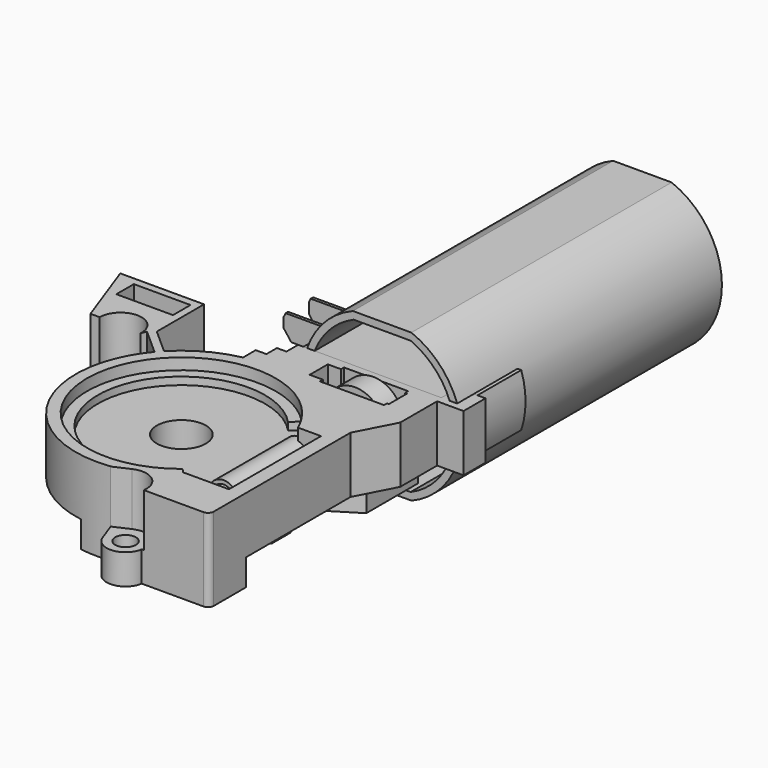
from build123d import *

# Parameters (mm, degrees)
PAD_DEPTH           = 86.2
PAD001_DEPTH        = 20
SKETCH003_W         = 10
SKETCH003_H         = 16
PAD002_DEPTH        = 8
PAD003_DEPTH        = 0.8
LINEARPATTERN_COUNT = 2
LINEARPATTERN_PITCH = 8.3
SKETCH005_R         = 2.75
SKETCH005_R_2       = 6.5
PAD004_DEPTH        = 7
PAD004_DEPTH_BACK   = 15
POCKET_DEPTH        = 7.001
SKETCH007_W         = 15
SKETCH007_H         = 5.8
SKETCH007_W_2       = 17
SKETCH007_H_2       = 8
POCKET001_DEPTH     = 17.001
SKETCH008_R         = 8.447262
SKETCH008_R_2       = 5.55
SKETCH008_W         = 21
SKETCH008_H         = 6
POCKET002_DEPTH     = 14.001
SKETCH009_R         = 25
POCKET003_DEPTH     = 3.001
POCKET004_DEPTH     = 5.001


with BuildPart() as motor:
    # Sketch → Revolution (revolve)
    with BuildSketch(Plane.XY):
        with BuildLine():
            Line((0, 83.9), (-19.5, 83.9))
            Line((-19.5, 83.9), (-19.5, 84.9))
            Line((-19.5, 84.9), (-14.47132, 84.9))
            ThreePointArc((-14.47132, 84.9), (-14.088637, 84.97612), (-13.764214, 85.192893))
            Line((-13.764214, 85.192893), (-11.642893, 87.314214))
            ThreePointArc((-11.642893, 87.314214), (-11.42612, 87.638637), (-11.35, 88.02132))
            Line((-11.35, 88.02132), (-11.35, 94.5))
            ThreePointArc((-10.35, 95.5), (-11.057107, 95.207107), (-11.35, 94.5))
            Line((-10.35, 95.5), (-9.445042, 95.5))
            ThreePointArc((-9.445042, 95.5), (-8.945042, 95.633975), (-8.579016, 96))
            Line((-8.579016, 96), (-6.038675, 100.4))
            ThreePointArc((-5.17265, 100.9), (-5.67265, 100.766025), (-6.038675, 100.4))
            Line((-5.17265, 100.9), (0, 100.9))
            Line((0, 100.9), (0, 83.9))
        make_face()
    revolve(axis=Axis((0, 0, 0), (0, 1, 0)))

    # Sketch001 → Pad (new body)
    with BuildSketch(Plane.XZ):
        with BuildLine():
            ThreePointArc((-7.745684, 19.6), (-21.075, 0), (-7.745684, -19.6))
            Line((-7.745684, -19.6), (7.745684, -19.6))
            ThreePointArc((7.745684, -19.6), (21.075, 0), (7.745684, 19.6))
            Line((-7.745684, 19.6), (7.745684, 19.6))
        make_face()
        with BuildLine():
            ThreePointArc((-7.557612, 17.65), (-19.2, 0), (-7.557612, -17.65))
            Line((-7.557612, -17.65), (7.557612, -17.65))
            ThreePointArc((7.557612, -17.65), (19.2, 0), (7.557612, 17.65))
            Line((-7.557612, 17.65), (7.557612, 17.65))
        make_face(mode=Mode.SUBTRACT)
    extrude(amount=-PAD_DEPTH)

    # Sketch002 → Pad001 (join)
    with BuildSketch(Plane.XZ):
        with BuildLine():
            ThreePointArc((-20.856654, 7), (-22, 0), (-20.856654, -7))
            Line((-20.856654, -7), (20.856654, -7))
            ThreePointArc((20.856654, -7), (22, 0), (20.856654, 7))
            Line((-20.856654, 7), (20.856654, 7))
        make_face()
    extrude(amount=-PAD001_DEPTH)

    # Sketch003 → Pad002 (join)
    with BuildSketch(Plane.XY):
        with Locations((-23, 15.5)):
            Rectangle(SKETCH003_W, SKETCH003_H)
    extrude(amount=-PAD002_DEPTH)

    # Sketch004 → Pad003 (join)
    with BuildSketch(Plane.XZ.offset(-19)):
        Polygon((-22.4, -3.6), (-22.4, 4.7), (-22.9, 6.7), (-33.5, 6.7), (-34, 5.7), (-34, 3), (-32, 0.4), (-26.4, 0.4), (-26.4, -3.6), align=None)
    pad003 = extrude(amount=PAD003_DEPTH)

    # LinearPattern: Pad003 ×2
    with Locations(*[(0, -i * LINEARPATTERN_PITCH, 0) for i in range(1, LINEARPATTERN_COUNT)]):
        add(pad003)

    # Sketch011 → Revolution001 (revolve)
    with BuildSketch(Plane.XY):
        Polygon((-3, 0), (-3, -3), (-8, -3), (-8, -9), (-3, -9), (-3, -27.5), (-4, -27.5), (-4, -52.5), (-3, -52.5), (-3, -64), (0, -64), (0, 0), align=None)
    revolve(axis=Axis((0, 0, 0), (0, 1, 0)))


with BuildPart() as gearbox:
    # Sketch005 → Pad004 (new body, two sides)
    with BuildSketch(Plane.XY) as pad004_sk:
        with BuildLine():
            Line((15.7, 0), (15.7, 5.5))
            Line((15.7, 5.5), (23, 5.5))
            Line((23, 5.5), (23, -1.8))
            Line((23, -1.8), (16, -1.8))
            Line((16, -1.8), (16, -14))
            Line((16, -14), (10.8, -24))
            Line((10.8, -24), (10.8, -69.3))
            ThreePointArc((9.3, -70.8), (10.36066, -70.36066), (10.8, -69.3))
            Line((9.3, -70.8), (-7.064415, -70.8))
            ThreePointArc((-16.696235, -71.71621), (-11.526521, -74.977531), (-7.064415, -70.8))
            Line((-16.696235, -71.71621), (-18.5, -66.780389))
            ThreePointArc((-49.349589, -33), (-42.675575, -57.881753), (-18.5, -66.780389))
            ThreePointArc((-50.179261, -32.456859), (-49.810606, -32.798974), (-49.349589, -33))
            Line((-50.179261, -32.456859), (-60.467437, -19.042934))
            ThreePointArc((-61.5, -16), (-61.234828, -17.606676), (-60.467437, -19.042934))
            Line((-61.5, -16), (-64.5, -16))
            Line((-64.5, -16), (-71, 2))
            Line((-71, 2), (-34, 2))
            Line((-34, 2), (-34, 35))
            ThreePointArc((-31.794789, 40.1), (-33.425088, 37.778172), (-34, 35))
            Line((-31.794789, 40.1), (-23.4, 40.1))
            ThreePointArc((-22.4, 39.1), (-22.692893, 39.807107), (-23.4, 40.1))
            Line((-22.4, 39.1), (-22.4, 0))
            Line((-22.4, 0), (15.7, 0))
        make_face()
        with Locations((-27, 35)):
            Circle(SKETCH005_R, mode=Mode.SUBTRACT)
        with Locations((-56.5, -16)):
            Circle(SKETCH005_R, mode=Mode.SUBTRACT)
        with Locations((-12, -70)):
            Circle(SKETCH005_R, mode=Mode.SUBTRACT)
        with Locations((-22, -39)):
            Circle(SKETCH005_R_2, mode=Mode.SUBTRACT)
    extrude(amount=PAD004_DEPTH)
    extrude(pad004_sk.sketch, amount=-PAD004_DEPTH_BACK)

    # Sketch006 → Pocket (cut, through all)
    with BuildSketch(Plane.XY.offset(-8)):
        with BuildLine():
            Line((9.5, 7.196354), (9.5, -17.130762))
            Line((9.5, -17.130762), (0, -23))
            Line((0, -23), (-9.5, -17.130762))
            Line((-9.5, -17.130762), (-9.5, 0))
            Line((-9.5, 0), (-22, 0))
            Line((-22, 0), (-22, -7.810231))
            ThreePointArc((-21, -15.358568), (-19.02992, -11.257164), (-22, -7.810231))
            Line((-21, -15.358568), (-21, -29.401953))
            ThreePointArc((-12.397956, -38.039143), (-15.162523, -32.190345), (-21, -29.401953))
            Line((-12.397956, -38.039143), (-3.264059, -38.039143))
            Line((-3.264059, -38.039143), (-3.264059, -33.677689))
            Line((-3.264059, -33.677689), (2.716105, -33.677689))
            Line((2.716105, -33.677689), (2.716105, -40.039126))
            Line((2.716105, -40.039126), (-12.40611, -40.039126))
            ThreePointArc((-14.207198, -44.691638), (-13.000793, -42.483788), (-12.40611, -40.039126))
            Line((-14.207198, -44.691638), (-9.071804, -58.6))
            Line((-9.071804, -58.6), (22.825802, -58.6))
            Line((22.825802, -58.6), (40.35564, 7.196354))
            Line((40.35564, 7.196354), (9.5, 7.196354))
        make_face()
        with BuildLine():
            ThreePointArc((-22.787114, -48.617846), (-19.031576, -48.1821), (-15.73168, -46.336938))
            Line((-15.73168, -46.336938), (-9.554675, -63.066331))
            Line((-9.554675, -63.066331), (-16.423952, -65.602679))
            Line((-16.423952, -65.602679), (-22.787114, -48.617846))
        make_face()
        with BuildLine():
            ThreePointArc((-31.551778, -37.626672), (-30.225214, -44.046618), (-25.102762, -48.13758))
            Line((-20.254833, -61.077888), (-25.102762, -48.13758))
            Line((-26.560535, -61.077888), (-20.254833, -61.077888))
            Line((-26.560535, -69.524544), (-26.560535, -61.077888))
            Line((-26.560535, -69.524544), (-53.497875, -69.524544))
            Line((-53.497875, -69.524544), (-53.497875, -32.552452))
            Line((-53.497875, -32.552452), (-31.551778, -37.626672))
        make_face()
        with BuildLine():
            ThreePointArc((-23, -29.401953), (-26.586203, -30.509462), (-29.478613, -32.901406))
            Line((-39.590852, -24.655166), (-29.478613, -32.901406))
            ThreePointArc((-23, -16.32375), (-32.18617, -18.715665), (-39.590852, -24.655166))
            Line((-23, -29.401953), (-23, -16.32375))
        make_face()
        with BuildLine():
            ThreePointArc((-40.785296, -26.259318), (-42.558238, -29.378607), (-43.817503, -32.738301))
            Line((-31.063539, -35.687181), (-43.817503, -32.738301))
            ThreePointArc((-30.57928, -34.582031), (-30.838699, -35.12703), (-31.063539, -35.687181))
            Line((-30.57928, -34.582031), (-40.785296, -26.259318))
        make_face()
    extrude(amount=-POCKET_DEPTH, mode=Mode.SUBTRACT)

    # Sketch007 → Pocket001 (cut, through all)
    with BuildSketch(Plane.XY.offset(-10)):
        with Locations((-58.296005, -2.9)):
            Rectangle(SKETCH007_W, SKETCH007_H)
        with BuildLine():
            ThreePointArc((-27.264678, 40.493628), (-31.707373, 32.155595), (-22.259765, 32.210704))
            Line((-22.259765, -3.880512), (-22.259765, 32.210704))
            Line((-24.783445, -3.880512), (-22.259765, -3.880512))
            Line((-24.783445, -7.357734), (-24.783445, -3.880512))
            Line((-27.610758, -7.357734), (-24.783445, -7.357734))
            Line((-27.610758, -11.567913), (-27.610758, -7.357734))
            ThreePointArc((-27.610758, -11.567913), (-35.485141, -14.461235), (-42.149004, -19.557325))
            Line((-48.796005, -13.654547), (-42.149004, -19.557325))
            Line((-48.796005, 40.490143), (-48.796005, -13.654547))
            Line((-27.264678, 40.493628), (-48.796005, 40.490143))
        make_face()
        with BuildLine():
            ThreePointArc((-60.038101, -20.210919), (-54.398538, -21.082702), (-51.021237, -16.482863))
            Line((-51.021237, -16.482863), (-50.377041, -14.925264))
            Line((-43.485481, -21.04522), (-50.377041, -14.925264))
            ThreePointArc((-43.485481, -21.04522), (-47.475291, -27.380639), (-49.643614, -34.546844))
            Line((-60.038101, -20.210919), (-49.643614, -34.546844))
        make_face()
        with Locations((0, -6)):
            Rectangle(SKETCH007_W_2, SKETCH007_H_2)
    extrude(amount=POCKET001_DEPTH, mode=Mode.SUBTRACT)

    # Sketch008 → Pocket002 (cut, through all)
    with BuildSketch(Plane.XY.offset(-7)):
        with Locations((-27, 35)):
            Circle(SKETCH008_R)
        with Locations((-56.5, -16)):
            Circle(SKETCH008_R_2)
        with BuildLine():
            ThreePointArc((-16.690709, -72.966438), (-6.684832, -71.597338), (-14.278326, -64.939197))
            Line((-14.278326, -64.939197), (-19.954693, -67.494644))
            Line((-19.954693, -67.494644), (-16.690709, -72.966438))
        make_face()
        with Locations((-1.5, -6)):
            Rectangle(SKETCH008_W, SKETCH008_H)
    extrude(amount=POCKET002_DEPTH, mode=Mode.SUBTRACT)

    # Sketch009 → Pocket003 (cut, through all)
    with BuildSketch(Plane.XY.offset(4)):
        with Locations((-22, -39)):
            Circle(SKETCH009_R)
    extrude(amount=POCKET003_DEPTH, mode=Mode.SUBTRACT)

    # Sketch010 → Pocket004 (cut, through all)
    with BuildSketch(Plane.XY.offset(2)):
        with BuildLine():
            ThreePointArc((-5.871979, -23.817462), (-44.103327, -37.562845), (-7.973791, -56.143161))
            Line((-5.227288, -59.5), (-7.973791, -56.143161))
            Line((7, -59.5), (-5.227288, -59.5))
            Line((7, -29), (7, -59.5))
            Line((0.912878, -29), (7, -29))
            ThreePointArc((0.912878, -29), (-1.134636, -25.229141), (-3.796816, -21.863953))
            Line((-5.871979, -23.817462), (-3.796816, -21.863953))
        make_face()
    extrude(amount=POCKET004_DEPTH, mode=Mode.SUBTRACT)


solid = Compound([motor.part, gearbox.part])
